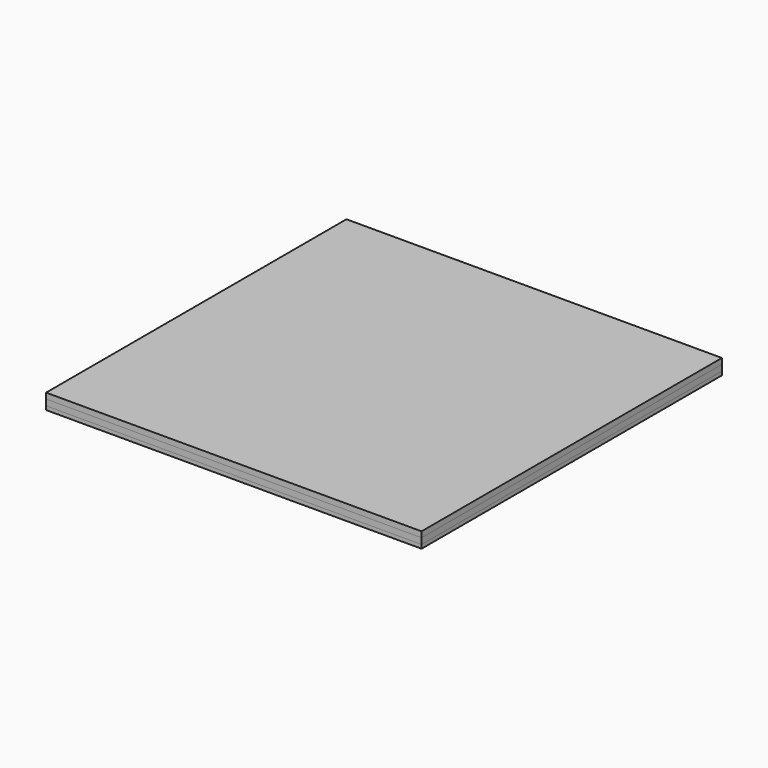
from build123d import *

# Parameters (mm, degrees)
F0_W     = 200
F0_H     = 200
F1_DEPTH = 1.5875
F2_R     = 2.5
F3_DEPTH = 3.176
F4_W     = 200
F4_H     = 200
F5_DEPTH = 2
F6_W     = 200
F6_H     = 200
F7_DEPTH = 3


with BuildPart() as f1:
    # F0 (on Top) → F1 (new body, symmetric)
    with BuildSketch(Plane.XY):
        Rectangle(F0_W, F0_H)
    extrude(amount=F1_DEPTH, both=True)

    # F2 (on face) → F3 (cut, through all)
    with BuildSketch(Plane.XY.offset(1.5875)):
        with Locations((-90, -140)):
            Circle(F2_R)
        with Locations((-90, 140)):
            Circle(F2_R)
        with Locations((90, 140)):
            Circle(F2_R)
        with Locations((90, -140)):
            Circle(F2_R)
    extrude(amount=-F3_DEPTH, mode=Mode.SUBTRACT)


with BuildPart() as f5:
    # F4 (on face) → F5 (new body)
    with BuildSketch(Plane(origin=(0, 0, -1.5875), x_dir=(1, 0, 0), z_dir=(0, 0, -1))):
        Rectangle(F4_W, F4_H)
    extrude(amount=F5_DEPTH)


with BuildPart() as f7:
    # F6 (on face) → F7 (new body)
    with BuildSketch(Plane.XY.offset(1.5875)):
        Rectangle(F6_W, F6_H)
    extrude(amount=F7_DEPTH)


solid = Compound([f1.part, f5.part, f7.part])
